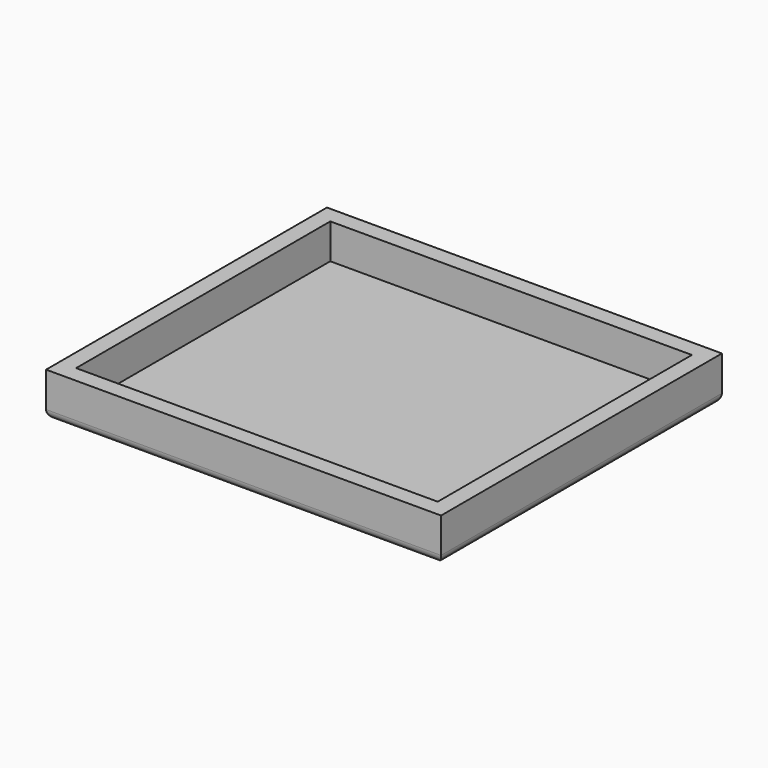
from build123d import *

# Parameters (mm, degrees)
SKETCH_W     = 45
SKETCH_H     = 40
PAD_DEPTH    = 5
SKETCH001_W  = 41.2
SKETCH001_H  = 36.2
POCKET_DEPTH = 4
FILLET_R     = 1


with BuildPart() as part:
    # Sketch → Pad (new body)
    with BuildSketch(Plane.XY):
        Rectangle(SKETCH_W, SKETCH_H)
    extrude(amount=PAD_DEPTH)

    # Sketch001 (on Face6 of Pad) → Pocket (cut)
    with BuildSketch(Plane.XY.offset(5)):
        Rectangle(SKETCH001_W, SKETCH001_H)
    extrude(amount=-POCKET_DEPTH, mode=Mode.SUBTRACT)

    # Fillet
    fillet_edges = [part.edges().sort_by_distance(p)[0] for p in [
        (0, 20, 0),
        (22.5, 0, 0),
        (0, -20, 0),
        (-22.5, 0, 0),
    ]]
    fillet(fillet_edges, radius=FILLET_R)


solid = part.part
